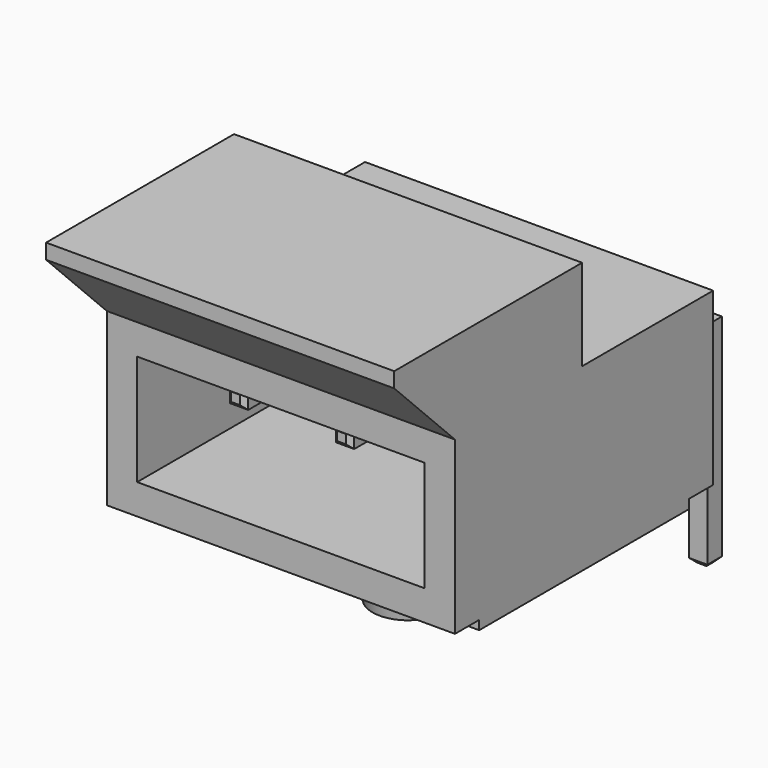
from build123d import *

# Parameters (mm, degrees)
F0_W           = 11.5
F0_H           = 10.66
F0_R           = 1.525
F1_DEPTH       = 5.65
F2_DEPTH       = 3
F3_SIZE2       = 0.3526539614
F3_SIZE        = 2
F4_W           = 9.5
F4_H           = 3.65
F5_DEPTH       = 7
F7_W           = 4.5
F7_H           = 0.6
F7_W_2         = 0.6
F7_H_2         = 4
F7_H_3         = 2.525
F7_W_3         = 5.86
F8_DEPTH       = 0.3
F8_DEPTH_BACK  = 0.3
F10_W          = 10.36
F10_H          = 0.6
F10_W_2        = 0.6
F10_H_2        = 6.525
F11_DEPTH      = 0.3
F11_DEPTH_BACK = 0.3
F13_W          = 10.36
F13_H          = 0.6
F13_W_2        = 0.6
F13_H_2        = 6.525
F14_DEPTH      = 0.3
F14_DEPTH_BACK = 0.3
F15_SIZE       = 0.15
F16_W          = 1
F16_H          = 8.66
F17_DEPTH      = 0.3
F19_DEPTH      = 11.5


with BuildPart() as f1:
    # F0 (on Top) → F1 (new body)
    with BuildSketch(Plane.XY):
        with Locations((0, -2.5)):
            Rectangle(F0_W, F0_H)
        with Locations((0, -2.58)):
            Circle(F0_R, mode=Mode.SUBTRACT)
        with Locations((0, -2.58)):
            Circle(F0_R)
    extrude(amount=F1_DEPTH)

    # F0 (on Top) → F2 (join)
    with BuildSketch(Plane.XY):
        with Locations((0, -2.58)):
            Circle(F0_R)
    extrude(amount=-F2_DEPTH)

    # F3
    f3_edges = [f1.edges().sort_by_distance(p)[0] for p in [
        (-1.525, -2.58, -3),
    ]]
    f3_side = f1.faces().sort_by_distance((-1.525, -2.58, -1.5))[0]
    chamfer(f3_edges, length=F3_SIZE, length2=F3_SIZE2, reference=f3_side)

    # F4 (on face) → F5 (cut)
    with BuildSketch(Plane.XZ.offset(7.83)):
        with Locations((0, 2.825)):
            Rectangle(F4_W, F4_H)
    extrude(amount=-F5_DEPTH, mode=Mode.SUBTRACT)

    # F7 (on mid) → F8 (join, two sides)
    with BuildSketch(Plane.YZ) as f8_sk:
        with Locations((-3.08, 2.825)):
            Rectangle(F7_W, F7_H)
        with Locations((5.33, 2.825)):
            Rectangle(F7_W_2, F7_H)
        with Locations((5.33, -2)):
            Rectangle(F7_W_2, F7_H_2)
        with Locations((5.33, 1.2625)):
            Rectangle(F7_W_2, F7_H_3)
        with Locations((2.1, 2.825)):
            Rectangle(F7_W_3, F7_H)
    extrude(amount=F8_DEPTH)
    extrude(f8_sk.sketch, amount=-F8_DEPTH_BACK)

    # F10 (on offset) → F11 (join, two sides)
    with BuildSketch(Plane.YZ.offset(3.5)) as f11_sk:
        with Locations((-0.15, 2.825)):
            Rectangle(F10_W, F10_H)
        with Locations((5.33, 2.825)):
            Rectangle(F10_W_2, F10_H)
        with Locations((5.33, -0.7375)):
            Rectangle(F10_W_2, F10_H_2)
    extrude(amount=F11_DEPTH)
    extrude(f11_sk.sketch, amount=-F11_DEPTH_BACK)

    # F13 (on offset) → F14 (join, two sides)
    with BuildSketch(Plane.YZ.offset(-3.5)) as f14_sk:
        with Locations((-0.15, 2.825)):
            Rectangle(F13_W, F13_H)
        with Locations((5.33, 2.825)):
            Rectangle(F13_W_2, F13_H)
        with Locations((5.33, -0.7375)):
            Rectangle(F13_W_2, F13_H_2)
    extrude(amount=F14_DEPTH)
    extrude(f14_sk.sketch, amount=-F14_DEPTH_BACK)

    # F15
    f15_edges = [f1.edges().sort_by_distance(p)[0] for p in [
        (-3.5, 5.03, -4),
        (-3.8, 5.33, -4),
        (-3.5, 5.63, -4),
        (-3.2, 5.33, -4),
        (-0.3, 5.33, -4),
        (0, 5.03, -4),
        (0.3, 5.33, -4),
        (0, 5.63, -4),
        (3.5, 5.03, -4),
        (3.2, 5.33, -4),
        (3.8, 5.33, -4),
        (3.5, 5.63, -4),
        (-3.2, -5.33, 2.825),
        (-3.5, -5.33, 3.125),
        (-3.8, -5.33, 2.825),
        (-3.5, -5.33, 2.525),
        (0, -5.33, 3.125),
        (-0.3, -5.33, 2.825),
        (0.3, -5.33, 2.825),
        (0, -5.33, 2.525),
        (3.2, -5.33, 2.825),
        (3.5, -5.33, 3.125),
        (3.8, -5.33, 2.825),
        (3.5, -5.33, 2.525),
    ]]
    chamfer(f15_edges, length=F15_SIZE)

    # F16 (on face) → F17 (join)
    with BuildSketch(Plane(origin=(0, 0, 0), x_dir=(1, 0, 0), z_dir=(0, 0, -1))):
        with Locations((5.25, 2.5)):
            Rectangle(F16_W, F16_H)
        with Locations((-5.25, 2.5)):
            Rectangle(F16_W, F16_H)
    extrude(amount=F17_DEPTH)

    # F18 (on face) → F19 (join, through all)
    with BuildSketch(Plane.YZ.offset(5.75)):
        Polygon((-10.34, 8.16), (-7.83, 5.65), (-2.58, 5.65), (-2.58, 8.66), (-10.34, 8.66), align=None)
    extrude(amount=-F19_DEPTH)


solid = f1.part
